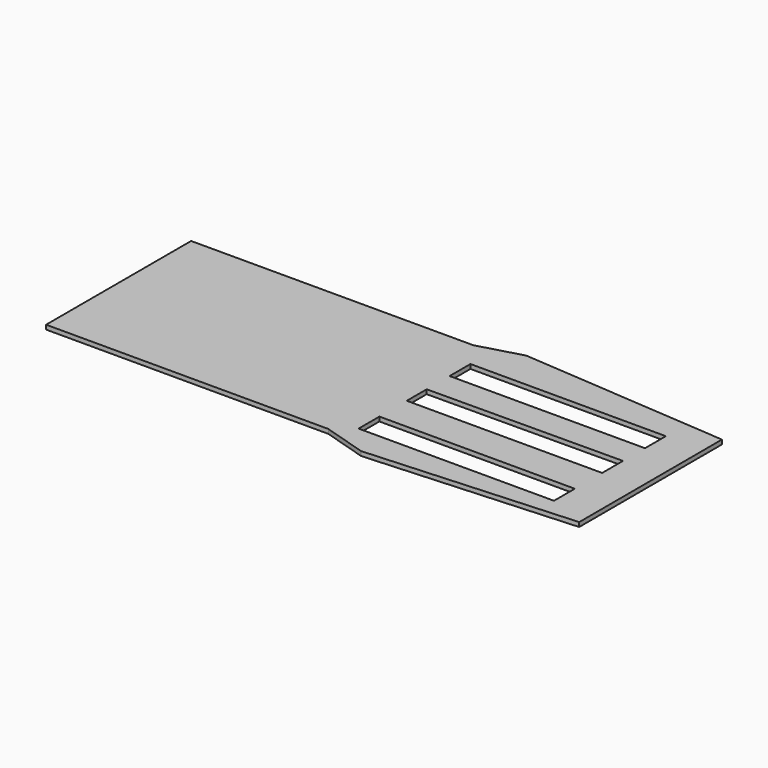
from build123d import *

# Parameters (mm, degrees)
F0_W     = 150
F0_H     = 99
F1_DEPTH = 1
F2_W     = 45
F2_H     = 6
F3_DEPTH = 25


with BuildPart() as f1:
    # F0 (on Top) → F1 (new body)
    with BuildSketch(Plane.XY):
        Rectangle(F0_W, F0_H)
    extrude(amount=F1_DEPTH)

    # F2 (on face) → F3 (cut)
    with BuildSketch(Plane.XY.offset(1)):
        with Locations((16.671137, 13.597774)):
            Rectangle(F2_W, F2_H)
        Polygon((39.171137, -1.737237), (39.171137, 4.262763), (-5.828066, 3.994909), (-5.828066, -1.737237), align=None)
        with Locations((16.671137, -12.613959)):
            Rectangle(F2_W, F2_H)
        Polygon((-75, 49.5), (-75, 22.636687), (-10, 22.636687), (0, 25.437629), (47.867719, 21.876522), (47.911783, -19.269578), (0, -22.178359), (-10, -19.122791), (-75, -19.122791), (-75, -49.5), (75, -49.5), (75, 49.5), align=None)
    extrude(amount=-F3_DEPTH, mode=Mode.SUBTRACT)


solid = f1.part
